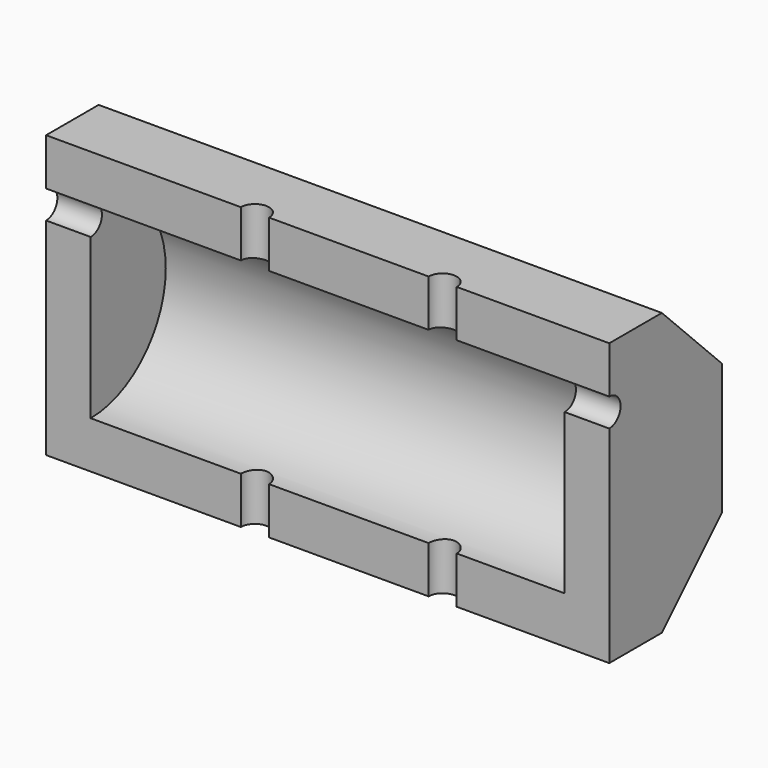
from build123d import *

# Parameters (mm, degrees)
F0_W          = 60
F0_H          = 30
F1_DEPTH      = 15
F3_W          = 50.5
F3_H          = 10
F5_R          = 1.5
F6_DEPTH      = 60.001
F7_R          = 1.5
F8_DEPTH      = 15.001
F8_DEPTH_BACK = 15.001
F9_SIZE       = 8


with BuildPart() as f1:
    # F0 (on Front) → F1 (new body)
    with BuildSketch(Plane.XZ):
        with Locations((30, 0)):
            Rectangle(F0_W, F0_H)
    extrude(amount=-F1_DEPTH)

    # F3 (on Front) → F4 (revolve, cut)
    with BuildSketch(Plane.XZ):
        with Locations((30, 5)):
            Rectangle(F3_W, F3_H)
    revolve(axis=Axis((30, 0, 0), (1, 0, 0)), mode=Mode.SUBTRACT)

    # F5 (on Right) → F6 (cut, through all)
    with BuildSketch(Plane.YZ):
        with Locations((0, 8.5)):
            Circle(F5_R)
    extrude(amount=F6_DEPTH, mode=Mode.SUBTRACT)

    # F7 (on Top) → F8 (cut, two sides)
    with BuildSketch(Plane.XY) as f8_sk:
        with Locations((22.25, 0)):
            Circle(F7_R)
        with Locations((42.25, 0)):
            Circle(F7_R)
    extrude(amount=-F8_DEPTH, mode=Mode.SUBTRACT)
    extrude(f8_sk.sketch, amount=F8_DEPTH_BACK, mode=Mode.SUBTRACT)

    # F9
    f9_edges = [f1.edges().sort_by_distance(p)[0] for p in [
        (30, 15, 15),
        (30, 15, -15),
    ]]
    chamfer(f9_edges, length=F9_SIZE)


solid = f1.part
